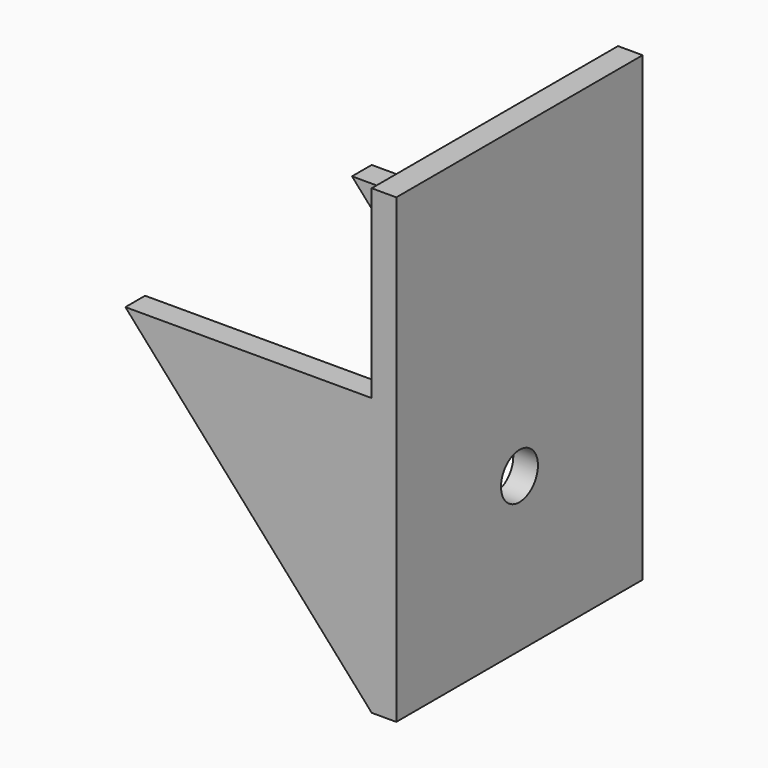
from build123d import *

# Parameters (mm, degrees)
F0_W     = 100
F0_H     = 150
F0_R     = 7.5
F1_DEPTH = 8
F2_W     = 8
F2_H     = 90
F3_DEPTH = 80
F5_DEPTH = 100.001


with BuildPart() as f1:
    # F0 (on Right) → F1 (new body)
    with BuildSketch(Plane.YZ):
        with Locations((-4.851894, 19.991098)):
            Rectangle(F0_W, F0_H)
        with Locations((-4.851894, -5.008902)):
            Circle(F0_R, mode=Mode.SUBTRACT)
    extrude(amount=F1_DEPTH)

    # F2 (on face) → F3 (join)
    with BuildSketch(Plane(origin=(0, 0, 0), x_dir=(0, -1, 0), z_dir=(-1, 0, 0))):
        with Locations((50.851894, -10.008902)):
            Rectangle(F2_W, F2_H)
        with Locations((-41.148106, -10.008902)):
            Rectangle(F2_W, F2_H)
    extrude(amount=F3_DEPTH)

    # F4 (on face) → F5 (cut, through all)
    with BuildSketch(Plane(origin=(0, 45.148106, 0), x_dir=(-1, 0, 0), z_dir=(0, 1, 0))):
        Polygon((80, -55.008902), (80, 34.991098), (0, -55.008902), align=None)
    extrude(amount=-F5_DEPTH, mode=Mode.SUBTRACT)


solid = f1.part
